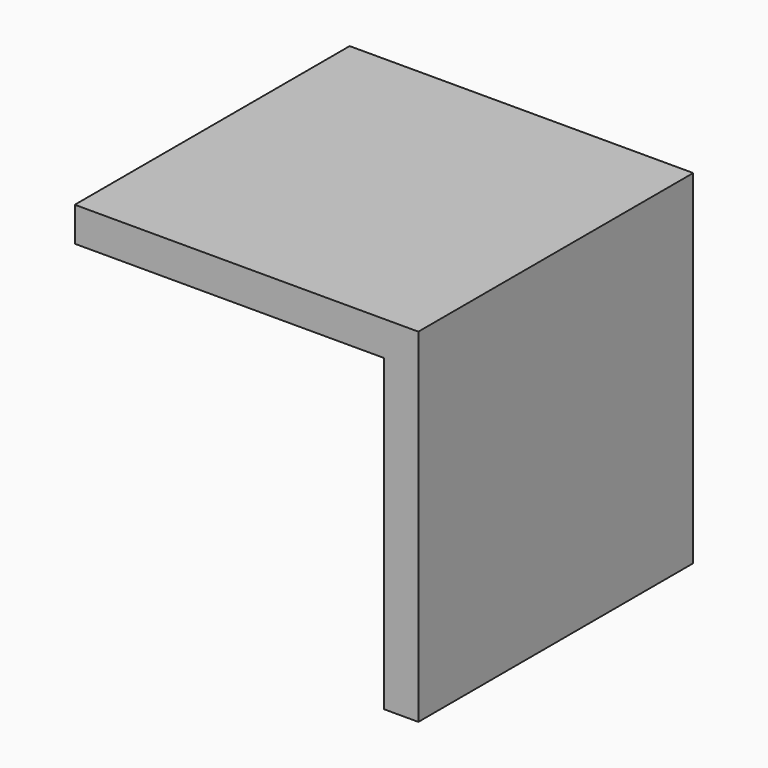
from build123d import *

# Parameters (mm, degrees)
BOX007_W                  = 50
BOX007_H                  = 58
BOX007_DEPTH              = 50
BOX006_W                  = 50
BOX006_H                  = 50
BOX006_DEPTH              = 50
CUT002007_PLACEMENT_ANGLE = 180


with BuildPart() as cube002:
    # Box007 → Box007 (new body)
    with BuildSketch(Plane(origin=(5, -3, -5), x_dir=(1, 0, 0), z_dir=(0, 0, 1))):
        with Locations((25, 29)):
            Rectangle(BOX007_W, BOX007_H)
    extrude(amount=BOX007_DEPTH)


with BuildPart() as cut002007:
    # Box006 → Box006 (new body)
    with BuildSketch(Plane.XY):
        with Locations((25, 25)):
            Rectangle(BOX006_W, BOX006_H)
    extrude(amount=BOX006_DEPTH)

    # Cut002007: cut Cube002
    add(cube002.part, mode=Mode.SUBTRACT)


with BuildPart() as cut002007_1:
    # Cut002007 placement: moved
    add(cut002007.part.moved(Location((635.68, 85, 18.5))).rotate(Axis((635.68, 85, 18.5), (0, 0, 1)), CUT002007_PLACEMENT_ANGLE))


solid = cut002007_1.part
